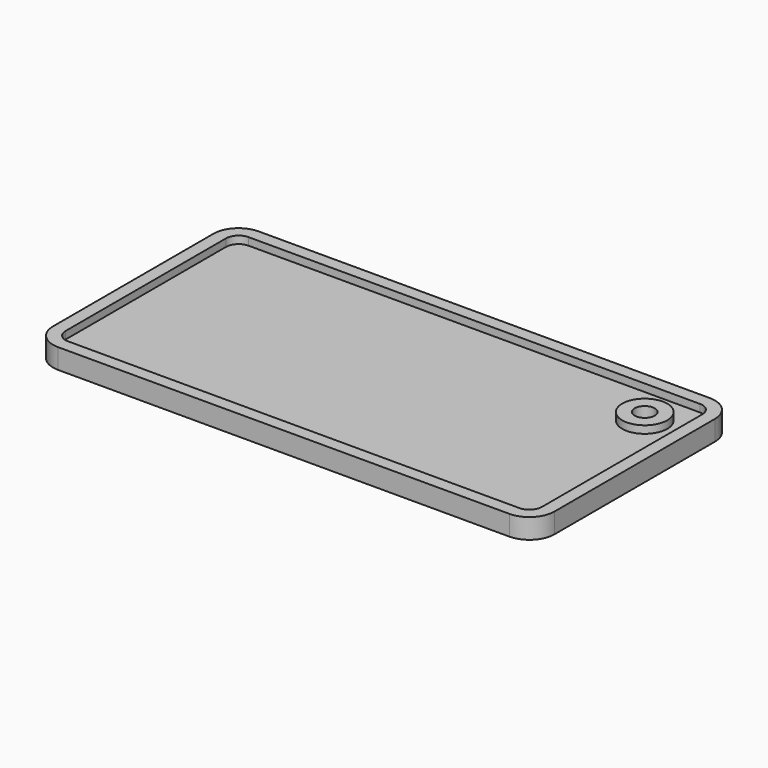
from build123d import *

# Parameters (mm, degrees)
F1_DEPTH = 4
F2_D     = 4
F3_T     = -2.5


with BuildPart() as f1:
    # F0 (on Top) → F1 (new body)
    with BuildSketch(Plane.XY):
        with BuildLine():
            ThreePointArc((0, 5), (1.4644660941, 1.4644660941), (5, 0))
            Line((5, 0), (95, 0))
            ThreePointArc((95, 0), (98.5355339059, 1.4644660941), (100, 5))
            Line((100, 5), (100, 45))
            ThreePointArc((100, 45), (98.5355339059, 48.5355339059), (95, 50))
            Line((95, 50), (5, 50))
            ThreePointArc((5, 50), (1.4644660941, 48.5355339059), (0, 45))
            Line((0, 45), (0, 5))
        make_face()
        with BuildLine():
            ThreePointArc((5, 40), (6.4644660941, 43.5355339059), (10, 45))
            Line((10, 45), (90, 45))
            ThreePointArc((90, 45), (93.5355339059, 43.5355339059), (95, 40))
            Line((95, 40), (95, 10))
            ThreePointArc((95, 10), (93.5355339059, 6.4644660941), (90, 5))
            Line((90, 5), (10, 5))
            ThreePointArc((10, 5), (6.4644660941, 6.4644660941), (5, 10))
            Line((5, 10), (5, 40))
        make_face(mode=Mode.SUBTRACT)
        with BuildLine():
            Line((90, 45), (10, 45))
            ThreePointArc((10, 45), (6.4644660941, 43.5355339059), (5, 40))
            Line((5, 40), (5, 10))
            ThreePointArc((5, 10), (6.4644660941, 6.4644660941), (10, 5))
            Line((10, 5), (90, 5))
            ThreePointArc((90, 5), (93.5355339059, 6.4644660941), (95, 10))
            Line((95, 10), (95, 40))
            ThreePointArc((95, 40), (93.5355339059, 43.5355339059), (90, 45))
        make_face()
    extrude(amount=F1_DEPTH)

    # F2 (through all)
    with Locations(Plane(origin=(0, 0, 0), x_dir=(1, 0, 0), z_dir=(0, 0, -1))):
        with Locations((90, -40)):
            Hole(F2_D / 2)

    # F3
    f3_openings = [f1.faces().sort_by_distance(p)[0] for p in [
        (49.89878, 24.962043, 4),
    ]]
    offset(amount=F3_T, openings=f3_openings)


solid = f1.part
